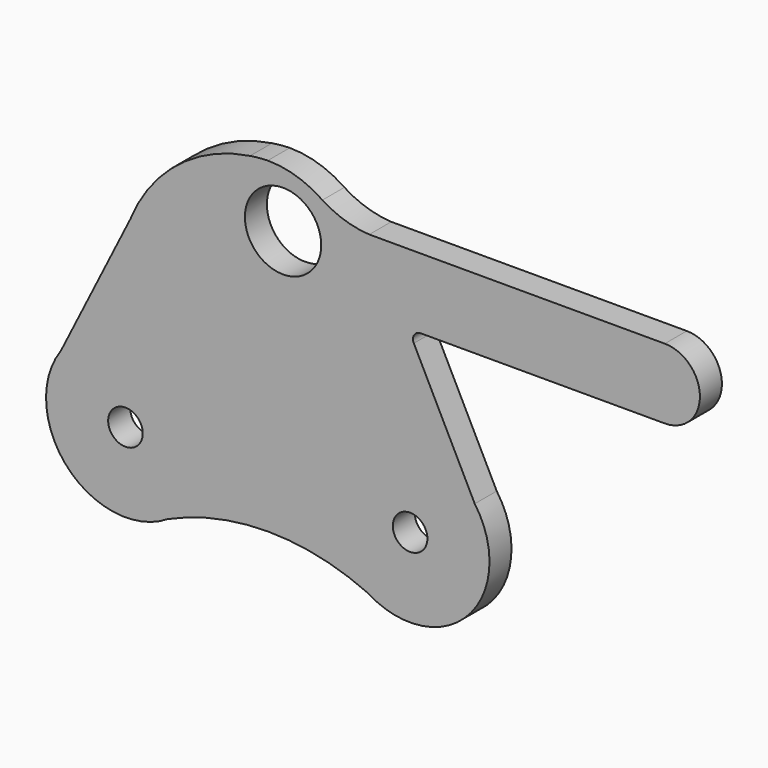
from build123d import *

# Parameters (mm, degrees)
F0_R     = 1.43764
F0_R_2   = 3.175
F1_DEPTH = 2.286


with BuildPart() as f1:
    # F0 (on Front) → F1 (new body)
    with BuildSketch(Plane.XZ):
        with BuildLine():
            Line((-11.43, 0), (-17.212507, -11.5316))
            ThreePointArc((-17.212507, -11.5316), (-16.638674, -19.900319), (-8.316873, -20.955))
            ThreePointArc((-8.316873, -20.955), (0, -19.152777), (8.316873, -20.955))
            ThreePointArc((8.316873, -20.955), (16.638674, -19.900319), (17.212507, -11.5316))
            Line((17.212507, -11.5316), (12.146577, -1.429014))
            ThreePointArc((12.146577, -1.429014), (12.173853, -0.810849), (12.714209, -0.509375))
            Line((12.714209, -0.509375), (33.02, -0.509375))
            ThreePointArc((33.02, -0.509375), (35.941, 2.411625), (33.02, 5.332625))
            Line((33.02, 5.332625), (8.437909, 5.332625))
            ThreePointArc((8.437909, 5.332625), (6.409691, 5.70754), (4.543451, 6.585822))
            ThreePointArc((4.543451, 6.585822), (2.379373, 7.639017), (0, 8.001))
            ThreePointArc((0, 8.001), (-0.739302, 7.953795), (-1.474639, 7.863933))
            ThreePointArc((-1.474639, 7.863933), (-7.494188, 5.250922), (-11.43, 0))
        make_face()
        with Locations((-11.8364, -15.367)):
            Circle(F0_R, mode=Mode.SUBTRACT)
        with Locations((11.8364, -15.367)):
            Circle(F0_R, mode=Mode.SUBTRACT)
        with Locations((1.27, 3.2512)):
            Circle(F0_R_2, mode=Mode.SUBTRACT)
    extrude(amount=F1_DEPTH)


solid = f1.part
